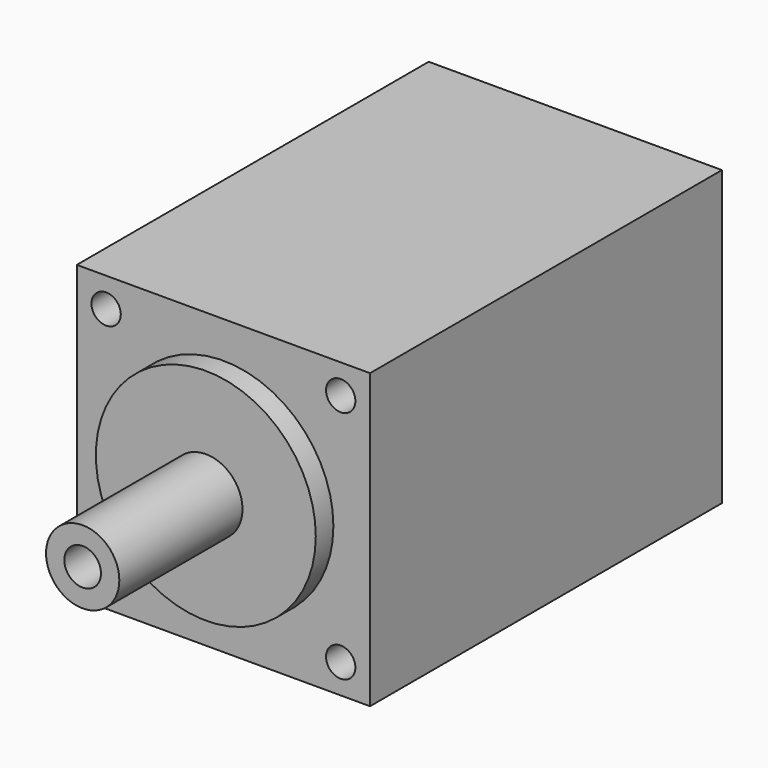
from build123d import *

# Parameters (mm, degrees)
CYLINDER002_R     = 1
CYLINDER002_DEPTH = 5
CYLINDER003_R     = 1
CYLINDER003_DEPTH = 5
CYLINDER004_R     = 1
CYLINDER004_DEPTH = 5
CYLINDER005_R     = 1.25
CYLINDER005_DEPTH = 50
CYLINDER001_R     = 1
CYLINDER001_DEPTH = 5
CYLINDER_R        = 7.5
CYLINDER_DEPTH    = 1.5
CYLINDER006_R     = 2.5
CYLINDER006_DEPTH = 50
BOX_W             = 20
BOX_H             = 30
BOX_DEPTH         = 20


with BuildPart() as cylinder002:
    # Cylinder002 → Cylinder002 (new body)
    with BuildSketch(Plane(origin=(-8, 0, 8), x_dir=(1, 0, 0), z_dir=(0, 1, 0))):
        Circle(CYLINDER002_R)
    extrude(amount=CYLINDER002_DEPTH)


with BuildPart() as cylinder003:
    # Cylinder003 → Cylinder003 (new body)
    with BuildSketch(Plane(origin=(8, 0, -8), x_dir=(1, 0, 0), z_dir=(0, 1, 0))):
        Circle(CYLINDER003_R)
    extrude(amount=CYLINDER003_DEPTH)


with BuildPart() as cylinder004:
    # Cylinder004 → Cylinder004 (new body)
    with BuildSketch(Plane(origin=(8, 0, 8), x_dir=(1, 0, 0), z_dir=(0, 1, 0))):
        Circle(CYLINDER004_R)
    extrude(amount=CYLINDER004_DEPTH)


with BuildPart() as cylinder005:
    # Cylinder005 → Cylinder005 (new body)
    with BuildSketch(Plane(origin=(0, -12, 0), x_dir=(1, 0, 0), z_dir=(0, 1, 0))):
        Circle(CYLINDER005_R)
    extrude(amount=CYLINDER005_DEPTH)


with BuildPart() as fusion002:
    # Cylinder001 → Cylinder001 (new body)
    with BuildSketch(Plane(origin=(-8, 0, -8), x_dir=(1, 0, 0), z_dir=(0, 1, 0))):
        Circle(CYLINDER001_R)
    extrude(amount=CYLINDER001_DEPTH)

    # Fusion002: union Cylinder002, Cylinder003, Cylinder004, Cylinder005
    add(cylinder002.part)
    add(cylinder003.part)
    add(cylinder004.part)
    add(cylinder005.part)


with BuildPart() as cylinder:
    # Cylinder → Cylinder (new body)
    with BuildSketch(Plane(origin=(0, -1.5, 0), x_dir=(1, 0, 0), z_dir=(0, 1, 0))):
        Circle(CYLINDER_R)
    extrude(amount=CYLINDER_DEPTH)


with BuildPart() as cylinder006:
    # Cylinder006 → Cylinder006 (new body)
    with BuildSketch(Plane(origin=(0, -12, 0), x_dir=(1, 0, 0), z_dir=(0, 1, 0))):
        Circle(CYLINDER006_R)
    extrude(amount=CYLINDER006_DEPTH)


with BuildPart() as hollowdoubleshaftstepper:
    # Box → Box (new body)
    with BuildSketch(Plane(origin=(-10, 0, -10), x_dir=(1, 0, 0), z_dir=(0, 0, 1))):
        with Locations((10, 15)):
            Rectangle(BOX_W, BOX_H)
    extrude(amount=BOX_DEPTH)

    # Fusion001: union Cylinder, Cylinder006
    add(cylinder.part)
    add(cylinder006.part)

    # Cut: cut Fusion002
    add(fusion002.part, mode=Mode.SUBTRACT)


solid = hollowdoubleshaftstepper.part
